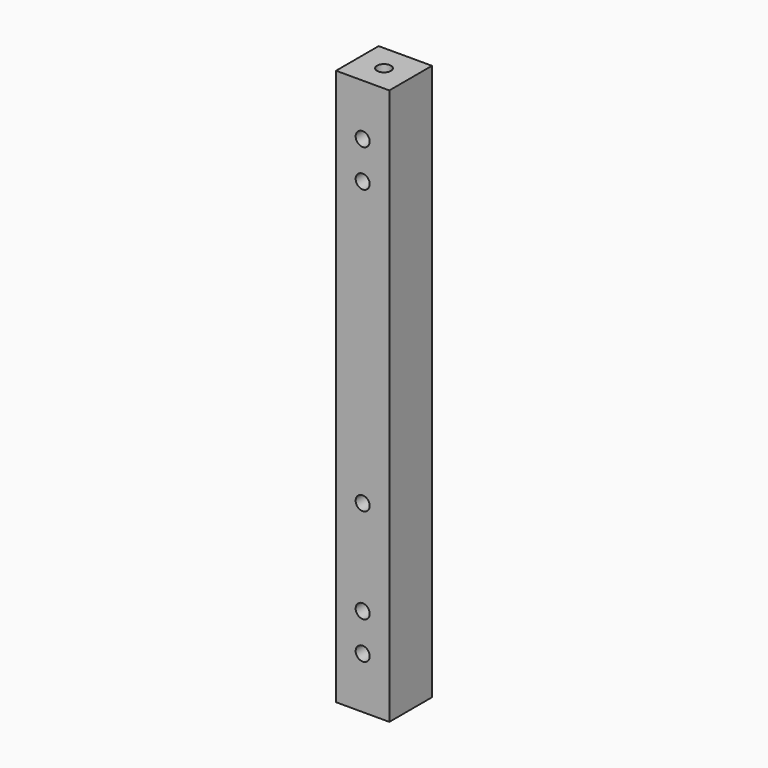
from build123d import *

# Parameters (mm, degrees)
SKETCH_W     = 11.4
SKETCH_H     = 11.4
SKETCH_R     = 1.5
PAD_DEPTH    = 118.85
SKETCH001_R  = 1.5
POCKET_DEPTH = 11.401


with BuildPart() as part:
    # Sketch → Pad (new body)
    with BuildSketch(Plane.XY):
        with Locations((5.7, 5.7)):
            Rectangle(SKETCH_W, SKETCH_H)
        with Locations((5.7, 5.7)):
            Circle(SKETCH_R, mode=Mode.SUBTRACT)
    extrude(amount=PAD_DEPTH)

    # Sketch001 → Pocket (cut, through all)
    with BuildSketch(Plane.XZ):
        with Locations((5.7, 11)):
            Circle(SKETCH001_R)
        with Locations((5.7, 19)):
            Circle(SKETCH001_R)
        with Locations((5.7, 107.85)):
            Circle(SKETCH001_R)
        with Locations((5.7, 99.85)):
            Circle(SKETCH001_R)
        with Locations((5.7, 39.3)):
            Circle(SKETCH001_R)
    extrude(amount=-POCKET_DEPTH, mode=Mode.SUBTRACT)


solid = part.part
